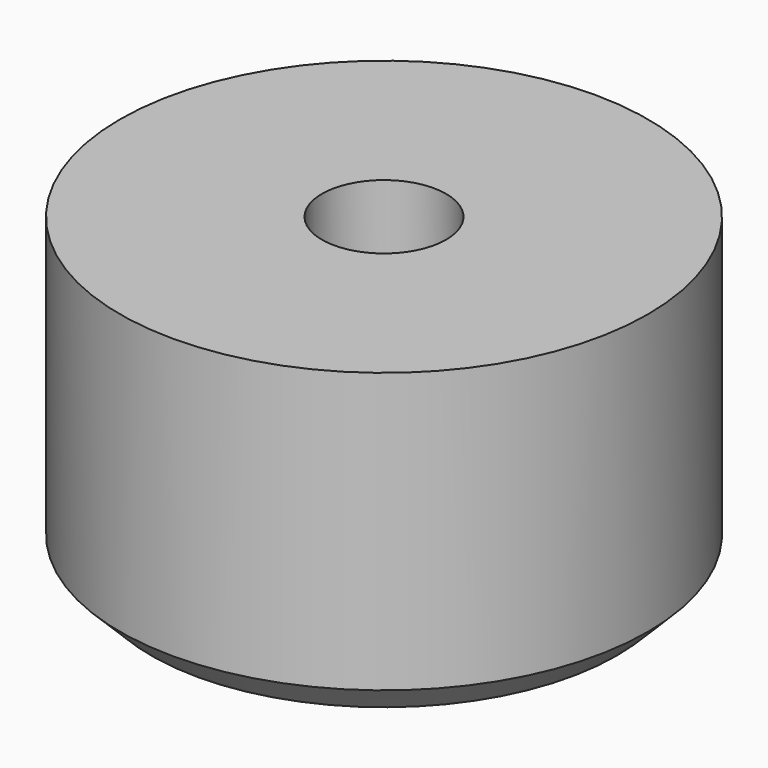
from build123d import *

# Parameters (mm, degrees)
F0_R           = 53.975
F1_DEPTH       = 63.5
F3_D           = 16.66748
F3_CBORE_D     = 25.4
F3_CBORE_DEPTH = 31.75
F4_SIZE        = 6.35


with BuildPart() as f1:
    # F0 (on Top) → F1 (new body)
    with BuildSketch(Plane.XY):
        Circle(F0_R)
    extrude(amount=F1_DEPTH)

    # F3 (through all)
    with Locations(Plane.XY.offset(63.5)):
        with Locations((0, 0)):
            CounterBoreHole(F3_D / 2, F3_CBORE_D / 2, F3_CBORE_DEPTH)

    # F4
    f4_edges = [f1.edges().sort_by_distance(p)[0] for p in [
        (-53.975, 0, 0),
    ]]
    chamfer(f4_edges, length=F4_SIZE)


solid = f1.part
